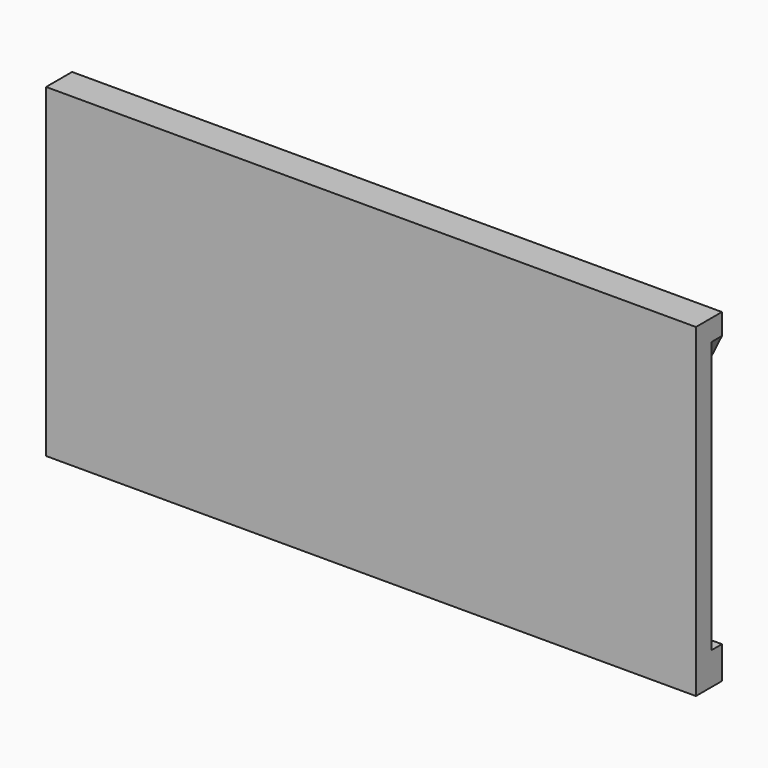
from build123d import *

# Parameters (mm, degrees)
F0_W     = 2000
F0_H     = 1000
F1_DEPTH = 100
F3_DEPTH = 40


with BuildPart() as f1:
    # F0 (on Front) → F1 (new body)
    with BuildSketch(Plane.XZ):
        Rectangle(F0_W, F0_H)
    extrude(amount=F1_DEPTH)

    # F2 (on face) → F3 (cut)
    with BuildSketch(Plane.XZ):
        with BuildLine():
            add(Edge.make_bspline(
                [(-1000, 425), (-635, 385), (43.6282540949, 301.6068419822), (495.2080240683, -370.8591927127), (890, 200), (1000, 435)],
                knots=[0, 0, 0, 0, 0.3888271221, 0.6715681678, 1, 1, 1, 1], degree=3))
            Line((-1000, 425), (-1000, -425))
            add(Edge.make_bspline(
                [(-1000, -425), (-700, -320), (-168.1292405703, -43.4213137635), (583.948307454, -406.7247177632), (875, -400), (1000, -400)],
                knots=[0, 0, 0, 0, 0.3855526607, 0.7416430137, 1, 1, 1, 1], degree=3))
            Line((1000, -400), (1000, 435))
        make_face()
    extrude(amount=F3_DEPTH, mode=Mode.SUBTRACT)


solid = f1.part
